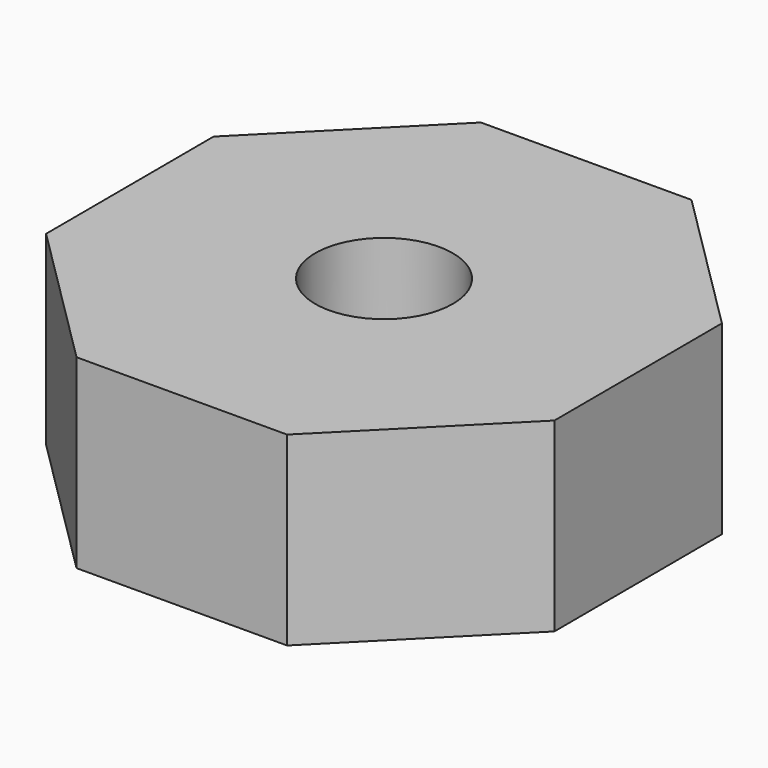
from build123d import *

# Parameters (mm, degrees)
F0_R     = 1000
F1_DEPTH = 2700


with BuildPart() as f1:
    # F0 (on Top) → F1 (new body)
    with BuildSketch(Plane.XY):
        Polygon((-3683.558114, -1537.488175), (-1517.500606, -3691.837236), (1537.488175, -3683.558114), (3691.837236, -1517.500606), (3683.558114, 1537.488175), (1517.500606, 3691.837236), (-1537.488175, 3683.558114), (-3691.837236, 1517.500606), align=None)
        Circle(F0_R, mode=Mode.SUBTRACT)
    extrude(amount=F1_DEPTH)


solid = f1.part
